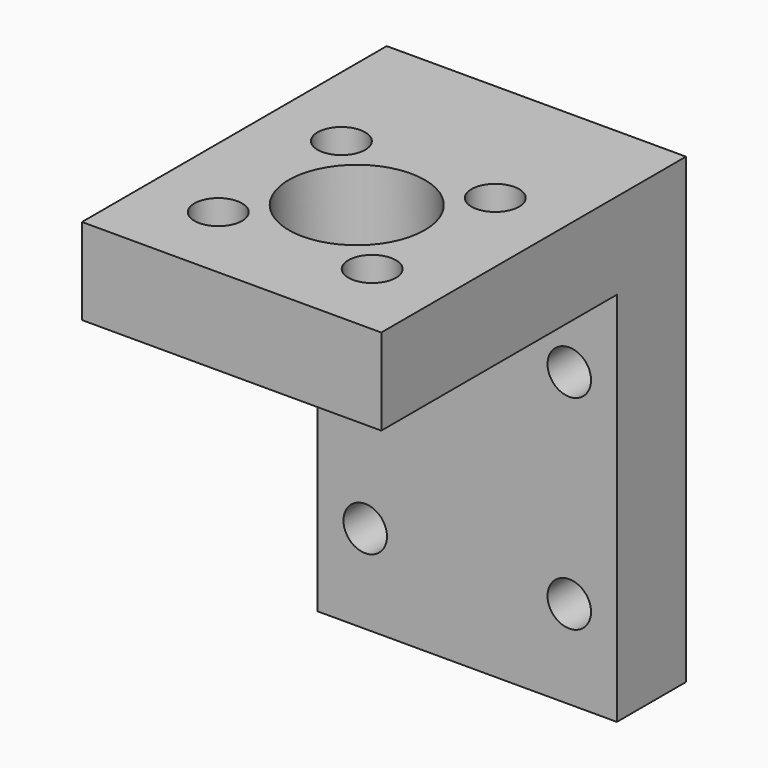
from build123d import *

# Parameters (mm, degrees)
PAD_DEPTH         = 11
SKETCH002_R       = 5
SKETCH002_R_2     = 1.75
POCKET_DEPTH      = 34.001
POCKET_DEPTH_BACK = 0.001
SKETCH003_R       = 1.6
HOLE_DEPTH        = 28.001


with BuildPart() as part:
    # Sketch → Pad (new body, symmetric)
    with BuildSketch(Plane.YZ):
        Polygon((-28, 0), (0, 0), (0, -34), (-6.35, -34), (-6.35, -6.35), (-28, -6.35), align=None)
    extrude(amount=PAD_DEPTH, both=True)

    # Sketch002 → Pocket (cut, two sides)
    with BuildSketch(Plane.XY) as pocket_sk:
        with Locations((0, -16.5)):
            Circle(SKETCH002_R)
        with Locations((-5.656854, -22.156854)):
            Circle(SKETCH002_R_2)
        with Locations((5.656854, -22.156854)):
            Circle(SKETCH002_R_2)
        with Locations((5.656854, -10.843146)):
            Circle(SKETCH002_R_2)
        with Locations((-5.656854, -10.843146)):
            Circle(SKETCH002_R_2)
    extrude(amount=-POCKET_DEPTH, mode=Mode.SUBTRACT)
    extrude(pocket_sk.sketch, amount=POCKET_DEPTH_BACK, mode=Mode.SUBTRACT)

    # Sketch003 (on Face5 of Pocket) → Hole (cut, through all)
    with BuildSketch(Plane.ZX):
        with Locations((-27.5, 7.5)):
            Circle(SKETCH003_R)
        with Locations((-12.5, 7.5)):
            Circle(SKETCH003_R)
        with Locations((-12.5, -7.5)):
            Circle(SKETCH003_R)
        with Locations((-27.5, -7.5)):
            Circle(SKETCH003_R)
    extrude(amount=-HOLE_DEPTH, mode=Mode.SUBTRACT)


solid = part.part
